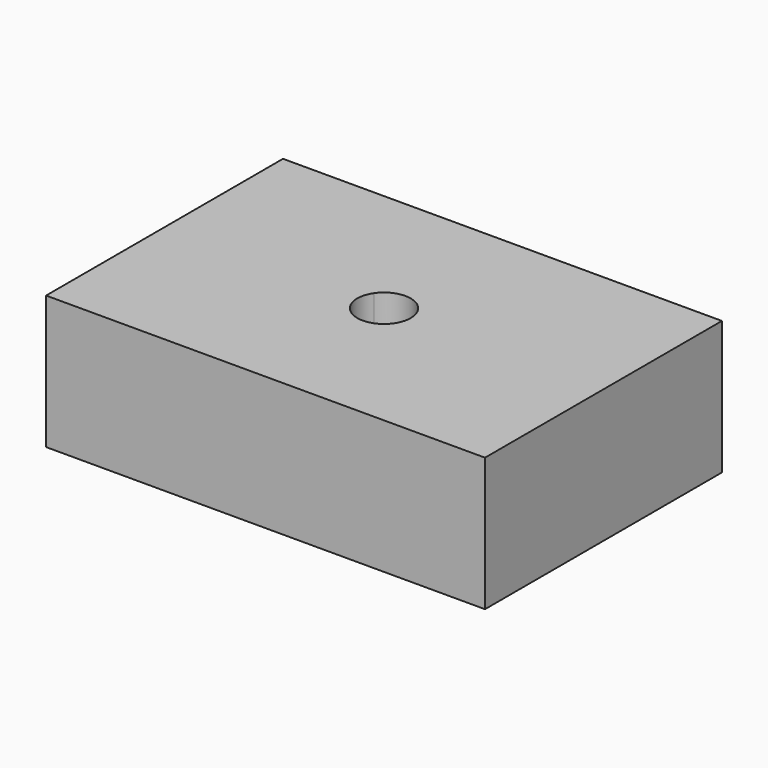
from build123d import *

# Parameters (mm, degrees)
F0_W     = 32.9
F0_H     = 22.2
F1_DEPTH = 10
F3_DEPTH = 25


with BuildPart() as f1:
    # F0 (on Top) → F1 (new body)
    with BuildSketch(Plane.XY):
        with Locations((16.45, -11.1)):
            Rectangle(F0_W, F0_H)
    extrude(amount=F1_DEPTH)

    # F2 (on face) → F3 (cut)
    with BuildSketch(Plane.XY.offset(10)):
        with BuildLine():
            Line((16.45, -11.1), (14.792127417, -9.981313941))
            ThreePointArc((14.792127417, -9.981313941), (14.45, -11.1), (14.792127417, -12.218686059))
            Line((14.792127417, -12.218686059), (16.45, -11.1))
        make_face()
        with BuildLine():
            ThreePointArc((18.107872583, -9.981313941), (16.45, -9.1), (14.792127417, -9.981313941))
            Line((14.792127417, -9.981313941), (16.45, -11.1))
            Line((16.45, -11.1), (18.107872583, -9.981313941))
        make_face()
        with BuildLine():
            Line((18.107872583, -12.218686059), (16.45, -11.1))
            Line((16.45, -11.1), (14.792127417, -12.218686059))
            ThreePointArc((14.792127417, -12.218686059), (16.45, -13.1), (18.107872583, -12.218686059))
        make_face()
        with BuildLine():
            Line((18.107872583, -9.981313941), (16.45, -11.1))
            Line((16.45, -11.1), (18.107872583, -12.218686059))
            ThreePointArc((18.107872583, -12.218686059), (18.3625565568, -11.6849165898), (18.45, -11.1))
            ThreePointArc((18.45, -11.1), (18.3625565568, -10.5150834102), (18.107872583, -9.981313941))
        make_face()
    extrude(amount=-F3_DEPTH, mode=Mode.SUBTRACT)


solid = f1.part
